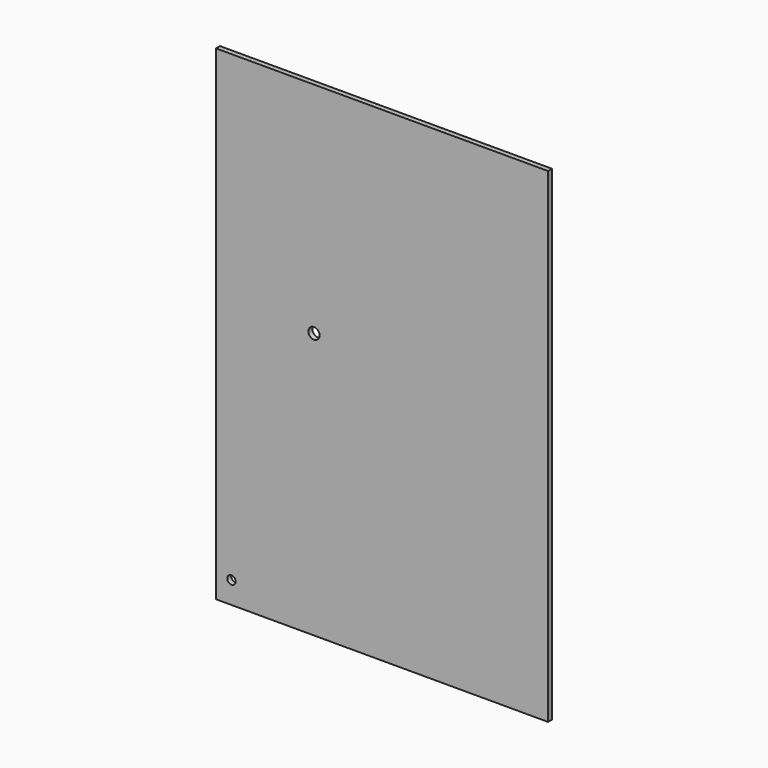
from build123d import *

# Parameters (mm, degrees)
F0_R     = 2.54
F1_DEPTH = 1.13


with BuildPart() as f1:
    # F0 (on Front) → F1 (new body, symmetric)
    with BuildSketch(Plane.XZ):
        Polygon((75.3, -110), (75.3, 110), (-75.3, 110), (-75.3, -100), (-75.3, -110), align=None)
        with BuildLine():
            ThreePointArc((-66.395, -100), (-68.3, -101.905), (-70.205, -100))
            ThreePointArc((-70.205, -100), (-68.3, -98.095), (-66.395, -100))
        make_face(mode=Mode.SUBTRACT)
        with Locations((-30.85, 10.6426)):
            Circle(F0_R, mode=Mode.SUBTRACT)
    extrude(amount=F1_DEPTH, both=True)


solid = f1.part
